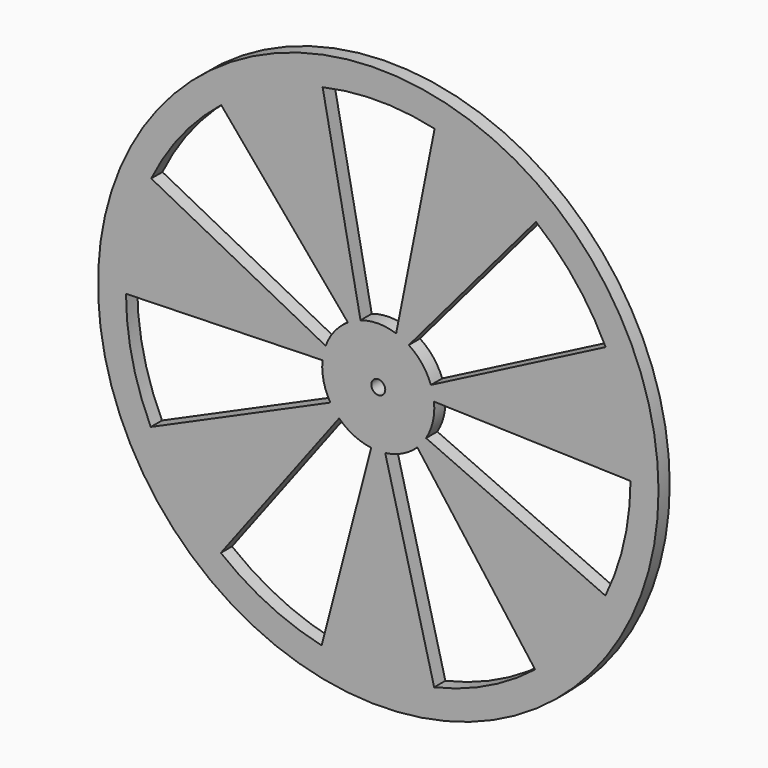
from build123d import *

# Parameters (mm, degrees)
F0_R     = 63.5
F0_R_2   = 1.5875
F1_DEPTH = 3.175


with BuildPart() as f1:
    # F0 (on Front) → F1 (new body)
    with BuildSketch(Plane.XZ):
        Circle(F0_R)
        with BuildLine():
            ThreePointArc((-12.832221, -55.690723), (-24.872502, -51.45368), (-35.672091, -44.650021))
            Line((-35.672091, -44.650021), (-8.873024, -9.086223))
            ThreePointArc((-8.873024, -9.086223), (-5.527223, -11.434151), (-1.608887, -12.597678))
            Line((-1.608887, -12.597678), (-12.832221, -55.690723))
        make_face(mode=Mode.SUBTRACT)
        with BuildLine():
            ThreePointArc((-51.541519, -24.689963), (-55.735858, -12.634739), (-57.149977, 0.050731))
            Line((-57.149977, 0.050731), (-12.636135, 1.272042))
            ThreePointArc((-12.636135, 1.272042), (-12.385746, -2.80772), (-10.852385, -6.596645))
            Line((-10.852385, -6.596645), (-51.541519, -24.689963))
        make_face(mode=Mode.SUBTRACT)
        with BuildLine():
            ThreePointArc((35.540001, -44.755232), (24.720355, -51.52695), (12.667607, -55.728397))
            Line((12.667607, -55.728397), (1.571655, -12.602377))
            ThreePointArc((1.571655, -12.602377), (5.493412, -11.450433), (8.846137, -9.112402))
            Line((8.846137, -9.112402), (35.540001, -44.755232))
        make_face(mode=Mode.SUBTRACT)
        with BuildLine():
            ThreePointArc((57.149878, -0.118139), (55.698281, -12.799376), (51.468339, -24.842153))
            Line((51.468339, -24.842153), (10.832846, -6.628684))
            ThreePointArc((10.832846, -6.628684), (12.377396, -2.844306), (12.639839, 1.234699))
            Line((12.639839, 1.234699), (57.149878, -0.118139))
        make_face(mode=Mode.SUBTRACT)
        with BuildLine():
            ThreePointArc((-51.439002, 24.902842), (-44.628976, 35.698417), (-35.592765, 44.713282))
            Line((-35.592765, 44.713282), (-6.883979, 10.672433))
            ThreePointArc((-6.883979, 10.672433), (-9.91755, 7.932982), (-11.923817, 4.371795))
            Line((-11.923817, 4.371795), (-51.439002, 24.902842))
        make_face(mode=Mode.SUBTRACT)
        Circle(F0_R_2, mode=Mode.SUBTRACT)
        with BuildLine():
            ThreePointArc((35.724731, 44.607915), (44.734265, 35.566389), (51.512362, 24.750739))
            Line((51.512362, 24.750739), (11.936683, 4.336543))
            ThreePointArc((11.936683, 4.336543), (9.940948, 7.903642), (6.915484, 10.652046))
            Line((6.915484, 10.652046), (35.724731, 44.607915))
        make_face(mode=Mode.SUBTRACT)
        with BuildLine():
            ThreePointArc((-12.601867, 55.7433), (0.084435, 57.149938), (12.766526, 55.705819))
            Line((12.766526, 55.705819), (4.051954, 12.036265))
            ThreePointArc((4.051954, 12.036265), (0.018763, 12.699986), (-4.016371, 12.048185))
            Line((-4.016371, 12.048185), (-12.601867, 55.7433))
        make_face(mode=Mode.SUBTRACT)
    extrude(amount=F1_DEPTH)


solid = f1.part
